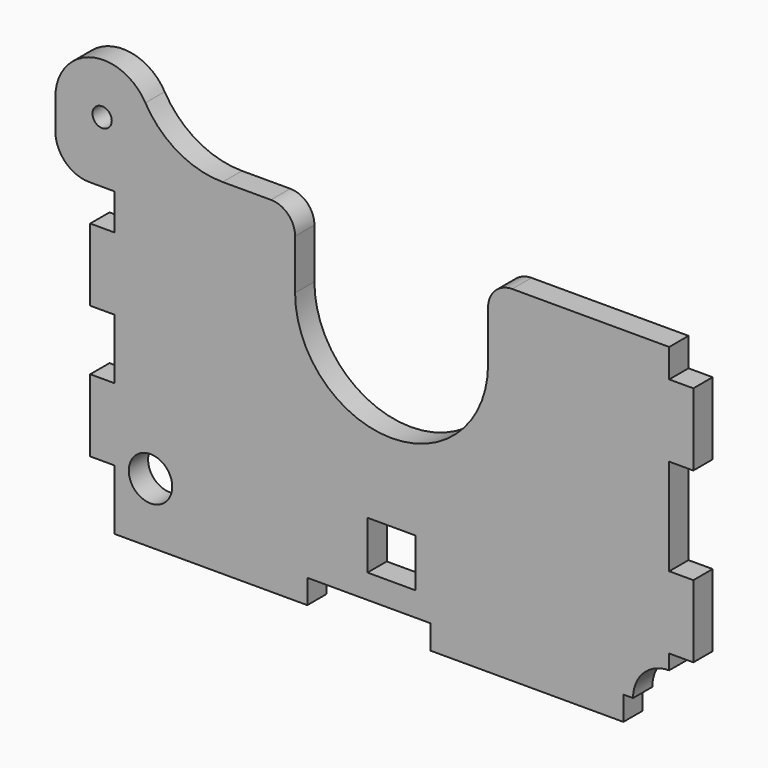
from build123d import *

# Parameters (mm, degrees)
SKETCH_R        = 9
SKETCH_R_2      = 4
PAD_DEPTH       = 10
COPYSKETCH001_W = 20
COPYSKETCH001_H = 20
POCKET_DEPTH    = 10.001
FILLET_R        = 10


with BuildPart() as part:
    # Sketch → Pad (new body)
    with BuildSketch(Plane.XZ):
        with BuildLine():
            Line((0, 0), (0, 25))
            Line((0, 25), (-10, 25))
            Line((-10, 25), (-10, 55))
            Line((-10, 55), (0, 55))
            Line((0, 55), (0, 80))
            Line((0, 80), (-10, 80))
            Line((-10, 80), (-10, 110))
            Line((-10, 110), (0, 110))
            Line((0, 110), (0, 125))
            Line((0, 125), (-10.439, 125))
            ThreePointArc((-24.439, 139), (-20.338495, 129.100505), (-10.439, 125))
            Line((-24.439, 139), (-24.439, 151.456))
            ThreePointArc((12.872585, 161.471439), (-9.623992, 170.772207), (-24.439, 151.456))
            ThreePointArc((12.872585, 161.471439), (26.413305, 147.948816), (44.899018, 143))
            Line((44.899018, 143), (230, 143))
            Line((230, 143), (230, 131.156))
            Line((230, 131.156), (240, 131.156))
            Line((240, 131.156), (240, 101.156))
            Line((240, 101.156), (230, 101.156))
            Line((230, 101.156), (230, 61.156))
            Line((230, 61.156), (240, 61.156))
            Line((240, 61.156), (240, 31.156))
            Line((240, 31.156), (230, 31.156))
            Line((230, 31.156), (230, 25))
            ThreePointArc((230, 25), (219.393398, 20.606602), (215, 10))
            Line((215, 10), (211, 10))
            Line((211, 10), (211, 0))
            Line((211, 0), (131, 0))
            Line((131, 0), (131, 10))
            Line((131, 10), (80, 10))
            Line((80, 10), (80, 0))
            Line((80, 0), (0, 0))
        make_face()
        with Locations((15, 25)):
            Circle(SKETCH_R, mode=Mode.SUBTRACT)
        with Locations((-5.055, 150.4)):
            Circle(SKETCH_R_2, mode=Mode.SUBTRACT)
    extrude(amount=PAD_DEPTH)

    # CopySketch001 → Pocket (cut, through all)
    with BuildSketch(Plane.XZ):
        with BuildLine():
            ThreePointArc((74.93, 112.3), (114.93, 72.3), (154.93, 112.3))
            Line((154.93, 112.3), (154.93, 155.12))
            Line((74.93, 155.12), (154.93, 155.12))
            Line((74.93, 112.3), (74.93, 155.12))
        make_face()
        with Locations((114.93, 30)):
            Rectangle(COPYSKETCH001_W, COPYSKETCH001_H)
    extrude(amount=POCKET_DEPTH, mode=Mode.SUBTRACT)

    # Fillet
    fillet_edges = [part.edges().sort_by_distance(p)[0] for p in [
        (154.93, -5, 143),
        (74.93, -5, 143),
    ]]
    fillet(fillet_edges, radius=FILLET_R)


solid = part.part
